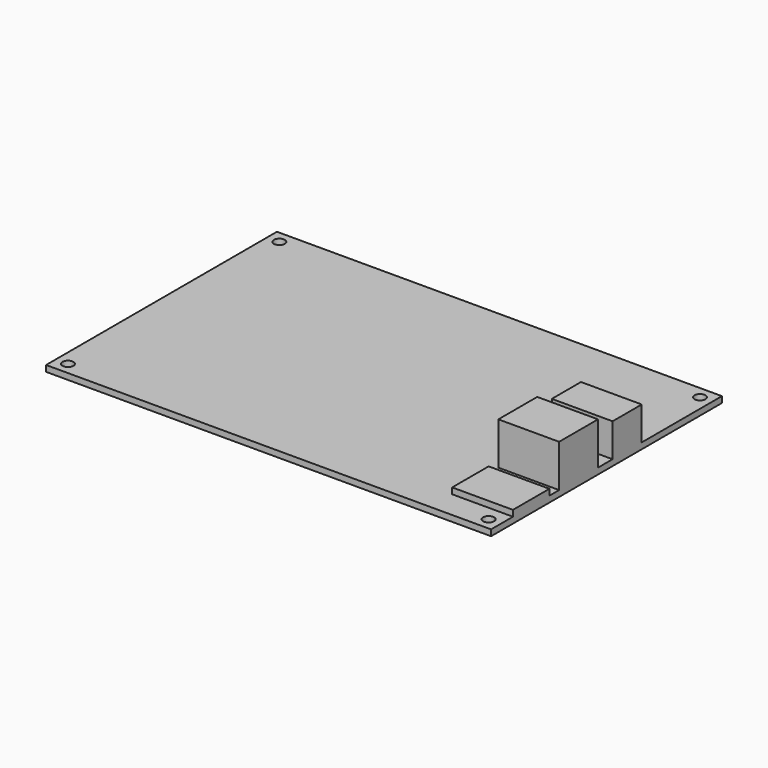
from build123d import *

# Parameters (mm, degrees)
SKETCH001_W   = 15
SKETCH001_H   = 2
SKETCH001_W_2 = 16
SKETCH001_H_2 = 14
SKETCH001_W_3 = 12
SKETCH001_H_3 = 11
PAD001_DEPTH  = 20
SKETCH_W      = 146.5
SKETCH_H      = 95
SKETCH_R      = 1.8
PAD_DEPTH     = 2


with BuildPart() as pad001:
    # Sketch001 → Pad001 (new body)
    with BuildSketch(Plane(origin=(73.25, 0, 0), x_dir=(0, -1, 0), z_dir=(-1, 0, 0))):
        with Locations((-16.5, 3)):
            Rectangle(SKETCH001_W, SKETCH001_H)
        with Locations((-36, 9)):
            Rectangle(SKETCH001_W_2, SKETCH001_H_2)
        with Locations((-56, 7.5)):
            Rectangle(SKETCH001_W_3, SKETCH001_H_3)
    extrude(amount=PAD001_DEPTH)


with BuildPart() as fusion:
    # Sketch → Pad (new body)
    with BuildSketch(Plane.XY):
        with Locations((0, 47.5)):
            Rectangle(SKETCH_W, SKETCH_H)
        with Locations((-69.25, 91)):
            Circle(SKETCH_R, mode=Mode.SUBTRACT)
        with Locations((69.25, 91)):
            Circle(SKETCH_R, mode=Mode.SUBTRACT)
        with Locations((69.25, 4)):
            Circle(SKETCH_R, mode=Mode.SUBTRACT)
        with Locations((-69.25, 4)):
            Circle(SKETCH_R, mode=Mode.SUBTRACT)
    extrude(amount=PAD_DEPTH)

    # Fusion: union Pad001
    add(pad001.part)


solid = fusion.part
